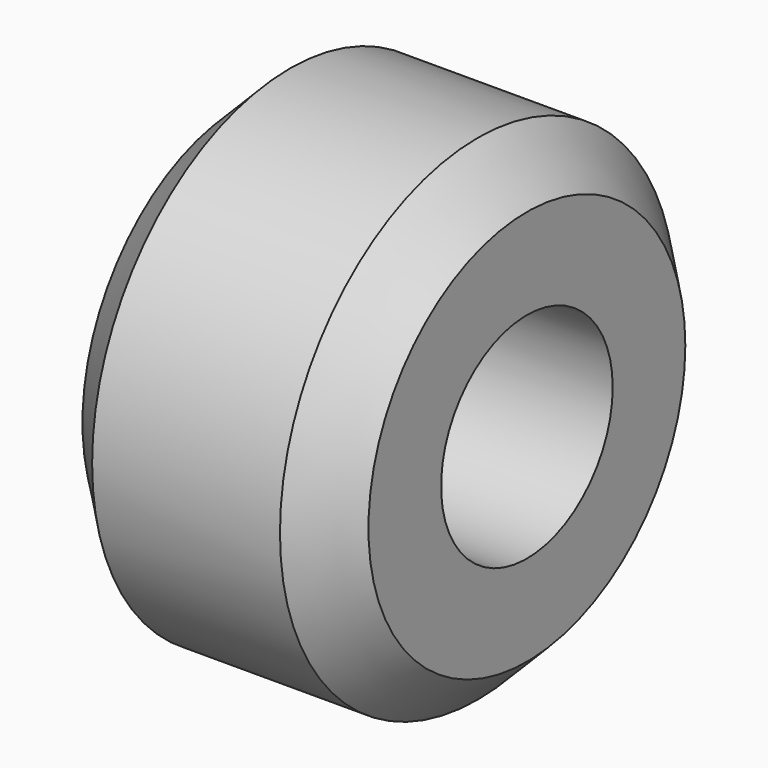
from build123d import *

# Parameters (mm, degrees)
F1_DEPTH      = 4.9
F1_DEPTH_BACK = 3.9
F2_R          = 4.32
F3_DEPTH      = 8.8
F4_D          = 6.6


with BuildPart() as f5:
    # F0 (on Top) → F5 (revolve)
    with BuildSketch(Plane.XY):
        Polygon((-0.5, 4.99), (0, 4.99), (0.5, 4.99), (4.4, 4.99), (4.4, 6.0935897653), (2.89, 7.61), (0, 7.61), (-2.89, 7.61), (-4.4, 6.0935897653), (-4.4, 4.99), align=None)
        Polygon((0.5, 4.99), (0, 4.99), (-0.5, 4.99), (-0.5, 4.32), (0, 4.32), (0.5, 4.32), align=None)
    revolve(axis=Axis((2.2, 0, 0), (1, 0, 0)))

    # F1 (add, two sides): a face of the model
    f1_faces = [f5.faces().sort_by_distance(p)[0] for p in [
        (-0.5, -4.8488614865, 0),
    ]]
    extrude(f1_faces, amount=-F1_DEPTH)
    extrude(f1_faces, amount=F1_DEPTH_BACK)

    # F2 (on face) → F3 (join, through all)
    with BuildSketch(Plane(origin=(-4.4, 0, 0), x_dir=(0, -1, 0), z_dir=(-1, 0, 0))):
        Circle(F2_R)
    extrude(amount=-F3_DEPTH)

    # F4 (through all)
    with Locations(Plane(origin=(-4.4, 0, 0), x_dir=(0, -1, 0), z_dir=(-1, 0, 0))):
        with Locations((0, 0)):
            Hole(F4_D / 2)


solid = f5.part
